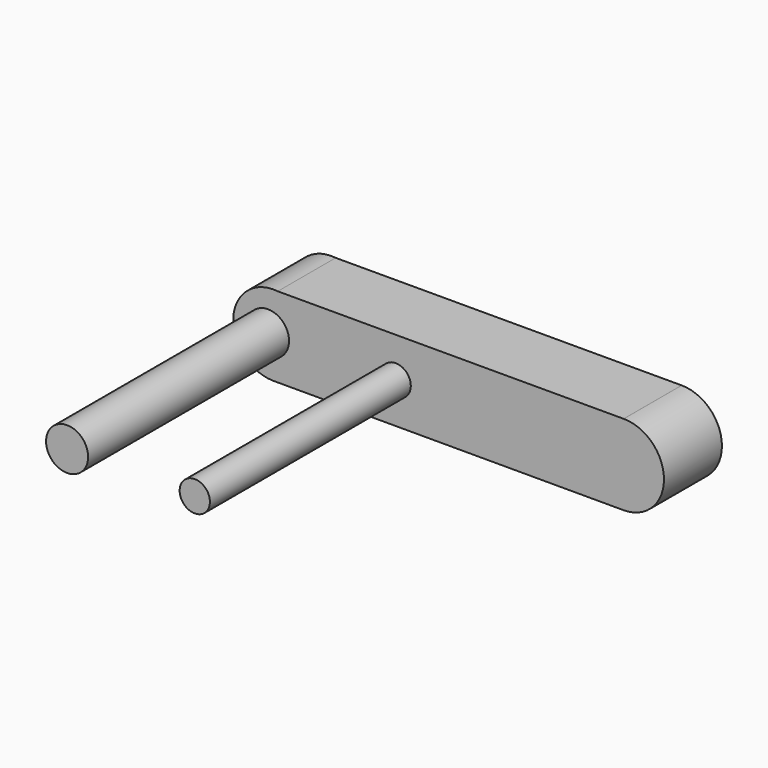
from build123d import *

# Parameters (mm, degrees)
F1_DEPTH = 5.715
F2_R     = 1.660999
F2_R_2   = 1.1938
F3_DEPTH = 19.812


with BuildPart() as f1:
    # F0 (on Front) → F1 (new body)
    with BuildSketch(Plane.XZ):
        with BuildLine():
            Line((-24.755399, 3.174997), (-52.048653, 3.156867))
            ThreePointArc((-52.048653, 3.156867), (-55.557965, 0.169667), (-52.387502, -3.175))
            Line((-52.387502, -3.175), (-24.751181, -3.175))
            ThreePointArc((-24.751181, -3.175), (-21.576181, 0), (-24.751181, 3.175))
            ThreePointArc((-24.751181, 3.175), (-24.75329, 3.174999), (-24.755399, 3.174997))
        make_face()
    extrude(amount=F1_DEPTH)

    # F2 (on face) → F3 (join)
    with BuildSketch(Plane.XZ.offset(5.715)):
        with Locations((-52.817982, 0)):
            Circle(F2_R)
        with Locations((-42.743627, 0)):
            Circle(F2_R_2)
    extrude(amount=F3_DEPTH)


solid = f1.part
